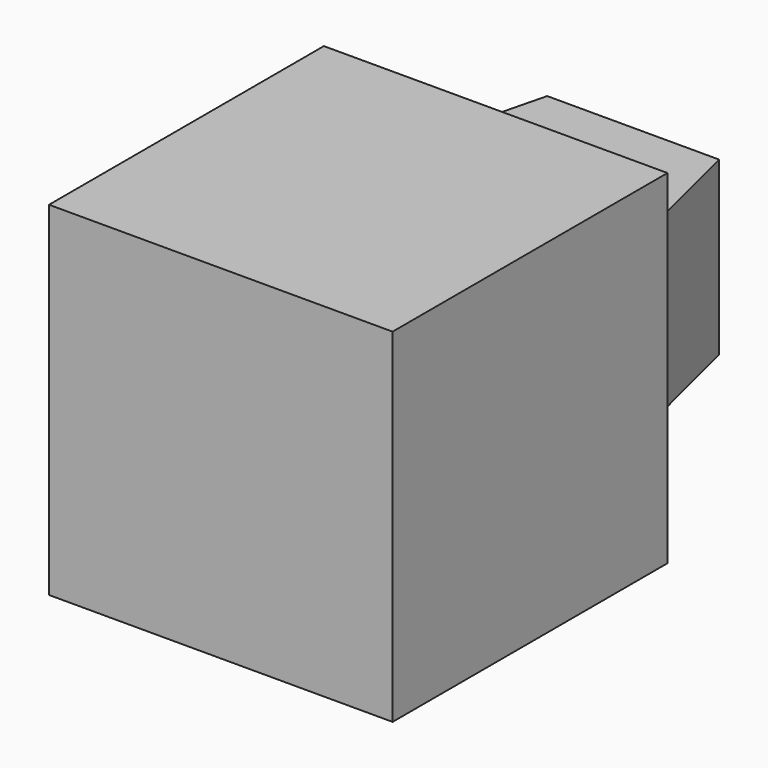
from build123d import *

# Parameters (mm, degrees)
F0_W     = 40
F0_H     = 40
F1_DEPTH = 40
F3_DEPTH = 10


with BuildPart() as f1:
    # F0 (on Front) → F1 (new body)
    with BuildSketch(Plane.XZ):
        Rectangle(F0_W, F0_H)
    extrude(amount=F1_DEPTH)

    # F2 (on Top) → F3 (join, symmetric)
    with BuildSketch(Plane.XY):
        Polygon((0, 0), (15, 0), (10, 20), (0, 20), align=None)
        Polygon((-15, 0), (0, 0), (0, 20), (-10, 20), align=None)
    extrude(amount=F3_DEPTH, both=True)


solid = f1.part
